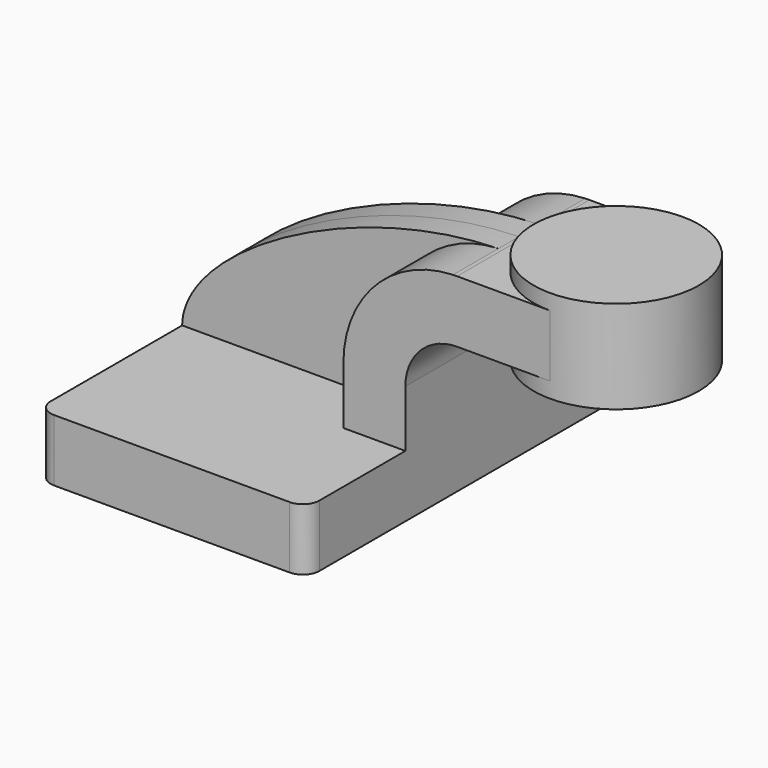
from build123d import *

# Parameters (mm, degrees)
F1_DEPTH = 63.5
F0_W     = 25.4
F0_H     = 19.05
F2_DEPTH = 25.4
F3_DEPTH = 7.9375
F5_R     = 5.08


with BuildPart() as f1:
    # F0 (on Front) → F1 (new body, symmetric)
    with BuildSketch(Plane.XZ):
        Polygon((-41.275, 9.525), (-41.275, -9.525), (41.275, -9.525), (41.275, 9.525), (22.225, 9.525), align=None)
    extrude(amount=F1_DEPTH, both=True)

    # F0 (on Front) → F2 (join, symmetric)
    with BuildSketch(Plane.XZ):
        with BuildLine():
            Line((22.225, 9.525), (41.275, 9.525))
            Line((41.275, 9.525), (41.275, 27.0002))
            ThreePointArc((41.275, 27.0002), (45.9246798487, 38.2255201513), (57.15, 42.8752))
            Line((57.15, 42.8752), (60.325, 42.8752))
            Line((60.325, 42.8752), (60.325, 61.9252))
            Line((60.325, 61.9252), (57.15, 61.9252))
            add(Edge.make_bspline(
                [(55.8981861571, 61.9027584607), (56.3159827124, 61.9126146059), (56.7332688293, 61.9201041343), (57.15, 61.9252)],
                knots=[110.4882520813, 110.4882520813, 110.4882520813, 110.4882520813, 111.5045361635, 111.5045361635, 111.5045361635, 111.5045361635], degree=3))
            ThreePointArc((55.8981861571, 61.9027584607), (32.0156089843, 51.2492827305), (22.225, 27.0002))
            Line((22.225, 27.0002), (22.225, 9.525))
        make_face()
        with Locations((73.025, 52.4002)):
            Rectangle(F0_W, F0_H)
    extrude(amount=F2_DEPTH, both=True)

    # F0 (on Front) → F4 (revolve)
    with BuildSketch(Plane.XZ):
        Polygon((85.725, 66.675), (85.725, 61.9252), (85.725, 42.8752), (85.725, 38.1), (111.125, 38.1), (111.125, 66.675), align=None)
    revolve(axis=Axis((85.725, 0, 52.3875), (0, 0, -1)))

    # F5
    f5_edges = [f1.edges().sort_by_distance(p)[0] for p in [
        (41.275, -63.5, 0),
        (-41.275, -63.5, 0),
        (41.275, 63.5, 0),
        (-41.275, 63.5, 0),
    ]]
    fillet(f5_edges, radius=F5_R)


with BuildPart() as f3:
    # F0 (on Front) → F3 (new body, symmetric)
    with BuildSketch(Plane.XZ):
        with BuildLine():
            add(Edge.make_bspline(
                [(-41.275, 9.525), (-40.978894068, 31.7872695715), (10.4762299043, 60.8312192408), (55.8981861571, 61.9027584607)],
                knots=[0, 0, 0, 0, 110.4882520813, 110.4882520813, 110.4882520813, 110.4882520813], degree=3))
            Line((-41.275, 9.525), (22.225, 9.525))
            Line((22.225, 9.525), (22.225, 27.0002))
            ThreePointArc((22.225, 27.0002), (32.0156089843, 51.2492827305), (55.8981861571, 61.9027584607))
        make_face()
    extrude(amount=F3_DEPTH, both=True)


solid = Compound([f1.part, f3.part])
